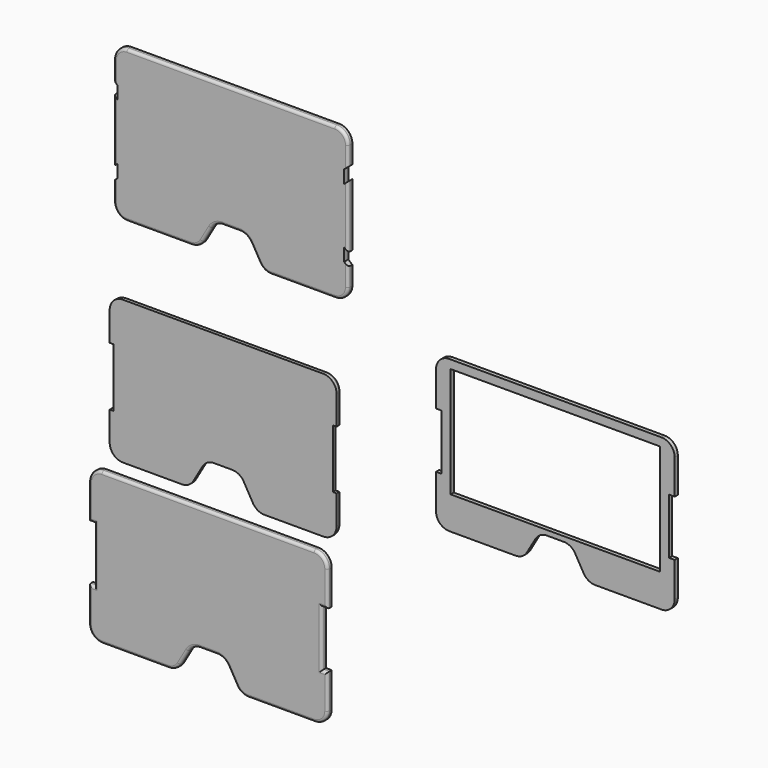
from build123d import *

# Parameters (mm, degrees)
F1_DEPTH  = 2
F2_R      = 1
F4_DEPTH  = 2
F5_R      = 1
F7_DEPTH  = 2
F8_R      = 1
F9_R      = 1
F10_W     = 78.9159826196
F10_H     = 41.600999973
F11_DEPTH = 1.5


with BuildPart() as f1:
    # F0 (on Front) → F1 (new body)
    with BuildSketch(Plane.XZ):
        with BuildLine():
            Line((42.77995, 13.0226947367), (42.77995, 22.0256))
            ThreePointArc((42.77995, 22.0256), (41.3154839059, 25.5611339059), (37.77995, 27.0256))
            Line((37.77995, 27.0256), (-37.77995, 27.0256))
            ThreePointArc((-37.77995, 27.0256), (-41.3154839059, 25.5611339059), (-42.77995, 22.0256))
            Line((-42.77995, 22.0256), (-42.77995, 11.0796280205))
            Line((-42.77995, 11.0796280205), (-41.3481369615, 11.0796280205))
            Line((-41.3481369615, 11.0796280205), (-41.3481369615, 0))
            Line((-41.3481369615, 0), (-41.3481369615, -11.0796280205))
            Line((-41.3481369615, -11.0796280205), (-42.77995, -11.0796280205))
            Line((-42.77995, -11.0796280205), (-42.77995, -22.0256))
            ThreePointArc((-42.77995, -22.0256), (-41.3154839059, -25.5611339059), (-37.77995, -27.0256))
            Line((-37.77995, -27.0256), (-15.5573813621, -27.0256))
            ThreePointArc((-15.5573813621, -27.0256), (-13.0573813621, -26.3557270189), (-11.2272543432, -24.5256))
            Line((-11.2272543432, -24.5256), (-7.778690681, -18.5525125241))
            ThreePointArc((-7.778690681, -18.5525125241), (-5.9485636621, -16.7223855052), (-3.4485636621, -16.0525125241))
            Line((-3.4485636621, -16.0525125241), (3.4485636621, -16.0525125241))
            ThreePointArc((3.4485636621, -16.0525125241), (5.9485636621, -16.7223855052), (7.778690681, -18.5525125241))
            Line((7.778690681, -18.5525125241), (11.2272543432, -24.5256))
            ThreePointArc((11.2272543432, -24.5256), (13.0573813621, -26.3557270189), (15.5573813621, -27.0256))
            Line((15.5573813621, -27.0256), (37.77995, -27.0256))
            ThreePointArc((37.77995, -27.0256), (41.3154839059, -25.5611339059), (42.77995, -22.0256))
            Line((42.77995, -22.0256), (42.77995, -11.0796280205))
            Line((42.77995, -11.0796280205), (41.3481369615, -11.0796280205))
            Line((41.3481369615, -11.0796280205), (41.3481369615, 0))
            Line((41.3481369615, 0), (41.3481369615, 11.0796280205))
            Line((41.3481369615, 11.0796280205), (42.77995, 11.0796280205))
            Line((42.77995, 11.0796280205), (42.77995, 13.0226947367))
        make_face()
    extrude(amount=F1_DEPTH)

    # F2
    f2_edges = [f1.edges().sort_by_distance(p)[0] for p in [
        (26.668666, 0, -27.0256),
        (41.315484, 0, -25.561134),
        (42.77995, 0, -16.552614),
        (42.064043, 0, -11.079628),
        (41.348137, 0, 0),
        (42.064043, 0, 11.079628),
        (42.77995, 0, 16.552614),
        (41.315484, 0, 25.561134),
        (0, 0, 27.0256),
        (-41.315484, 0, 25.561134),
        (-42.77995, 0, 16.552614),
        (-42.064043, 0, 11.079628),
        (-41.348137, 0, 0),
        (-42.064043, 0, -11.079628),
        (-42.77995, 0, -16.552614),
        (-41.315484, 0, -25.561134),
        (-26.668666, 0, -27.0256),
        (-13.057381, 0, -26.355727),
        (-9.502973, 0, -21.539056),
        (-5.948564, 0, -16.722386),
        (0, 0, -16.052513),
        (5.948564, 0, -16.722386),
        (9.502973, 0, -21.539056),
        (13.057381, 0, -26.355727),
    ]]
    fillet(f2_edges, radius=F2_R)


with BuildPart() as f4:
    # F3 (on Front) → F4 (new body)
    with BuildSketch(Plane.XZ):
        with BuildLine():
            Line((34.3397835701, -32.5972362989), (-45.6602164299, -32.5972362989))
            ThreePointArc((-45.6602164299, -32.5972362989), (-49.1957503358, -34.061702393), (-50.6602164299, -37.5972362989))
            Line((-50.6602164299, -37.5972362989), (-50.6602164299, -50.6822362989))
            Line((-50.6602164299, -50.6822362989), (-48.5402164299, -50.6822362989))
            Line((-48.5402164299, -50.6822362989), (-48.5402164299, -61.1822362989))
            Line((-48.5402164299, -61.1822362989), (-48.5402164299, -71.6822362989))
            Line((-48.5402164299, -71.6822362989), (-50.6602164299, -71.6822362989))
            Line((-50.6602164299, -71.6822362989), (-50.6602164299, -84.7672362989))
            ThreePointArc((-50.6602164299, -84.7672362989), (-49.1957503358, -88.3027702049), (-45.6602164299, -89.7672362989))
            Line((-45.6602164299, -89.7672362989), (-20.6745957455, -89.7672362989))
            ThreePointArc((-20.6745957455, -89.7672362989), (-18.1745957455, -89.0973633178), (-16.3444687266, -87.2672362989))
            Line((-16.3444687266, -87.2672362989), (-13.1674060877, -81.7644023895))
            ThreePointArc((-13.1674060877, -81.7644023895), (-11.3372790688, -79.9342753706), (-8.8372790688, -79.2644023895))
            Line((-8.8372790688, -79.2644023895), (-2.483153791, -79.2644023895))
            ThreePointArc((-2.483153791, -79.2644023895), (0.016846209, -79.9342753706), (1.8469732279, -81.7644023895))
            Line((1.8469732279, -81.7644023895), (5.0240358668, -87.2672362989))
            ThreePointArc((5.0240358668, -87.2672362989), (6.8541628857, -89.0973633178), (9.3541628857, -89.7672362989))
            Line((9.3541628857, -89.7672362989), (34.3397835701, -89.7672362989))
            ThreePointArc((34.3397835701, -89.7672362989), (37.875317476, -88.3027702049), (39.3397835701, -84.7672362989))
            Line((39.3397835701, -84.7672362989), (39.3397835701, -71.6822362989))
            Line((39.3397835701, -71.6822362989), (37.2197835701, -71.6822362989))
            Line((37.2197835701, -71.6822362989), (37.2197835701, -61.1822362989))
            Line((37.2197835701, -61.1822362989), (37.2197835701, -50.6822362989))
            Line((37.2197835701, -50.6822362989), (39.3397835701, -50.6822362989))
            Line((39.3397835701, -50.6822362989), (39.3397835701, -37.5972362989))
            ThreePointArc((39.3397835701, -37.5972362989), (37.875317476, -34.061702393), (34.3397835701, -32.5972362989))
        make_face()
    extrude(amount=F4_DEPTH)

    # F5
    f5_edges = [f4.edges().sort_by_distance(p)[0] for p in [
        (-5.660216, -2, -32.597236),
        (-49.19575, -2, -34.061702),
        (-50.660216, -2, -44.139736),
        (-49.600216, -2, -50.682236),
        (-48.540216, -2, -61.182236),
        (-49.600216, -2, -71.682236),
        (-50.660216, -2, -78.224736),
        (-49.19575, -2, -88.30277),
        (-33.167406, -2, -89.767236),
        (-18.174596, -2, -89.097363),
        (-14.755937, -2, -84.515819),
        (-11.337279, -2, -79.934275),
        (-5.660216, -2, -79.264402),
        (0.016846, -2, -79.934275),
        (3.435505, -2, -84.515819),
        (6.854163, -2, -89.097363),
        (21.846973, -2, -89.767236),
        (37.875317, -2, -88.30277),
        (39.339784, -2, -78.224736),
        (38.279784, -2, -71.682236),
        (37.219784, -2, -61.182236),
        (38.279784, -2, -50.682236),
        (39.339784, -2, -44.139736),
        (37.875317, -2, -34.061702),
    ]]
    fillet(f5_edges, radius=F5_R)


with BuildPart() as f7:
    # F6 (on Front) → F7 (new body)
    with BuildSketch(Plane.XZ):
        Polygon((-39.740704, 82.0778739071), (-39.740704, 71.5778739071), (45.6209221482, 71.5778739071), (45.6209221482, 82.0778739071), (45.6209221482, 92.5778739071), (-39.740704, 92.5778739071), align=None)
        with BuildLine():
            Line((-39.740704, 97.432218492), (-39.740704, 92.5778739071))
            Line((-39.740704, 92.5778739071), (45.6209221482, 92.5778739071))
            Line((45.6209221482, 92.5778739071), (45.6209221482, 97.432218492))
            Line((45.6209221482, 97.432218492), (47.1355319023, 98.7302295947))
            Line((47.1355319023, 98.7302295947), (47.1355319023, 105.6628739071))
            ThreePointArc((47.1355319023, 105.6628739071), (45.6710658082, 109.198407813), (42.1355319023, 110.6628739071))
            Line((42.1355319023, 110.6628739071), (2.9401090741, 110.6628739071))
            Line((2.9401090741, 110.6628739071), (-36.2553137541, 110.6628739071))
            ThreePointArc((-36.2553137541, 110.6628739071), (-39.79084766, 109.198407813), (-41.2553137541, 105.6628739071))
            Line((-41.2553137541, 105.6628739071), (-41.2553137541, 98.7302295947))
            Line((-41.2553137541, 98.7302295947), (-39.740704, 97.432218492))
        make_face()
        Polygon((-41.2553137541, 70.2798628044), (-39.740704, 71.5778739071), (-39.740704, 82.0778739071), (-39.740704, 92.5778739071), (-41.2553137541, 93.8758850098), (-41.2553137541, 82.0778739071), align=None)
        with BuildLine():
            ThreePointArc((-4.5670805837, 61.4957078165), (-2.7369535648, 63.3258348354), (-0.2369535648, 63.9957078165))
            Line((-0.2369535648, 63.9957078165), (2.9401090741, 63.9957078165))
            Line((2.9401090741, 63.9957078165), (6.117171713, 63.9957078165))
            ThreePointArc((6.117171713, 63.9957078165), (8.617171713, 63.3258348354), (10.4472987319, 61.4957078165))
            Line((10.4472987319, 61.4957078165), (13.6243613708, 55.9928739071))
            ThreePointArc((13.6243613708, 55.9928739071), (15.4544883897, 54.1627468882), (17.9544883897, 53.4928739071))
            Line((17.9544883897, 53.4928739071), (42.1355319023, 53.4928739071))
            ThreePointArc((42.1355319023, 53.4928739071), (45.6710658082, 54.9573400012), (47.1355319023, 58.4928739071))
            Line((47.1355319023, 58.4928739071), (47.1355319023, 65.4255182195))
            Line((47.1355319023, 65.4255182195), (45.6209221482, 66.7235293221))
            Line((45.6209221482, 66.7235293221), (45.6209221482, 71.5778739071))
            Line((45.6209221482, 71.5778739071), (-39.740704, 71.5778739071))
            Line((-39.740704, 71.5778739071), (-39.740704, 66.7235293221))
            Line((-39.740704, 66.7235293221), (-41.2553137541, 65.4255182195))
            Line((-41.2553137541, 65.4255182195), (-41.2553137541, 58.4928739071))
            ThreePointArc((-41.2553137541, 58.4928739071), (-39.79084766, 54.9573400012), (-36.2553137541, 53.4928739071))
            Line((-36.2553137541, 53.4928739071), (-12.0742702415, 53.4928739071))
            ThreePointArc((-12.0742702415, 53.4928739071), (-9.5742702415, 54.1627468882), (-7.7441432226, 55.9928739071))
            Line((-7.7441432226, 55.9928739071), (-4.5670805837, 61.4957078165))
        make_face()
        Polygon((45.6209221482, 82.0778739071), (45.6209221482, 71.5778739071), (47.1355319023, 70.2798628044), (47.1355319023, 82.0778739071), (47.1355319023, 93.8758850098), (45.6209221482, 92.5778739071), align=None)
    extrude(amount=F7_DEPTH)

    # F8
    f8_edges = [f7.edges().sort_by_distance(p)[0] for p in [
        (-39.790848, -2, 109.198408),
        (45.671066, -2, 54.95734),
    ]]
    fillet(f8_edges, radius=F8_R)

    # F9
    f9_edges = [f7.edges().sort_by_distance(p)[0] for p in [
        (47.135532, -2, 82.077874),
        (-41.255314, -2, 82.077874),
    ]]
    fillet(f9_edges, radius=F9_R)


with BuildPart() as f11:
    # F10 (on Front) → F11 (new body)
    with BuildSketch(Plane.XZ):
        with BuildLine():
            Line((164.8816255849, 47.047036546), (84.8816255849, 47.047036546))
            ThreePointArc((84.8816255849, 47.047036546), (81.346091679, 45.5825704519), (79.8816255849, 42.047036546))
            Line((79.8816255849, 42.047036546), (79.8816255849, 28.962036546))
            Line((79.8816255849, 28.962036546), (82.0016255849, 28.962036546))
            Line((82.0016255849, 28.962036546), (82.0016255849, 18.462036546))
            Line((82.0016255849, 18.462036546), (82.0016255849, 7.962036546))
            Line((82.0016255849, 7.962036546), (79.8816255849, 7.962036546))
            Line((79.8816255849, 7.962036546), (79.8816255849, -5.122963454))
            ThreePointArc((79.8816255849, -5.122963454), (81.346091679, -8.65849736), (84.8816255849, -10.122963454))
            Line((84.8816255849, -10.122963454), (109.8672462693, -10.122963454))
            ThreePointArc((109.8672462693, -10.122963454), (112.3672462693, -9.4530904729), (114.1973732882, -7.622963454))
            Line((114.1973732882, -7.622963454), (117.3744359271, -2.1201295446))
            ThreePointArc((117.3744359271, -2.1201295446), (119.204562946, -0.2900025257), (121.704562946, 0.3798704554))
            Line((121.704562946, 0.3798704554), (128.0586882238, 0.3798704554))
            ThreePointArc((128.0586882238, 0.3798704554), (130.5586882238, -0.2900025257), (132.3888152427, -2.1201295446))
            Line((132.3888152427, -2.1201295446), (135.5658778816, -7.622963454))
            ThreePointArc((135.5658778816, -7.622963454), (137.3960049006, -9.4530904729), (139.8960049006, -10.122963454))
            Line((139.8960049006, -10.122963454), (164.8816255849, -10.122963454))
            ThreePointArc((164.8816255849, -10.122963454), (168.4171594909, -8.65849736), (169.8816255849, -5.122963454))
            Line((169.8816255849, -5.122963454), (169.8816255849, 7.962036546))
            Line((169.8816255849, 7.962036546), (167.7616255849, 7.962036546))
            Line((167.7616255849, 7.962036546), (167.7616255849, 18.462036546))
            Line((167.7616255849, 18.462036546), (167.7616255849, 28.962036546))
            Line((167.7616255849, 28.962036546), (169.8816255849, 28.962036546))
            Line((169.8816255849, 28.962036546), (169.8816255849, 42.047036546))
            ThreePointArc((169.8816255849, 42.047036546), (168.4171594909, 45.5825704519), (164.8816255849, 47.047036546))
        make_face()
        with Locations((124.8816255849, 23.0503797491)):
            Rectangle(F10_W, F10_H, mode=Mode.SUBTRACT)
    extrude(amount=F11_DEPTH)


solid = Compound([f1.part, f4.part, f7.part, f11.part])
